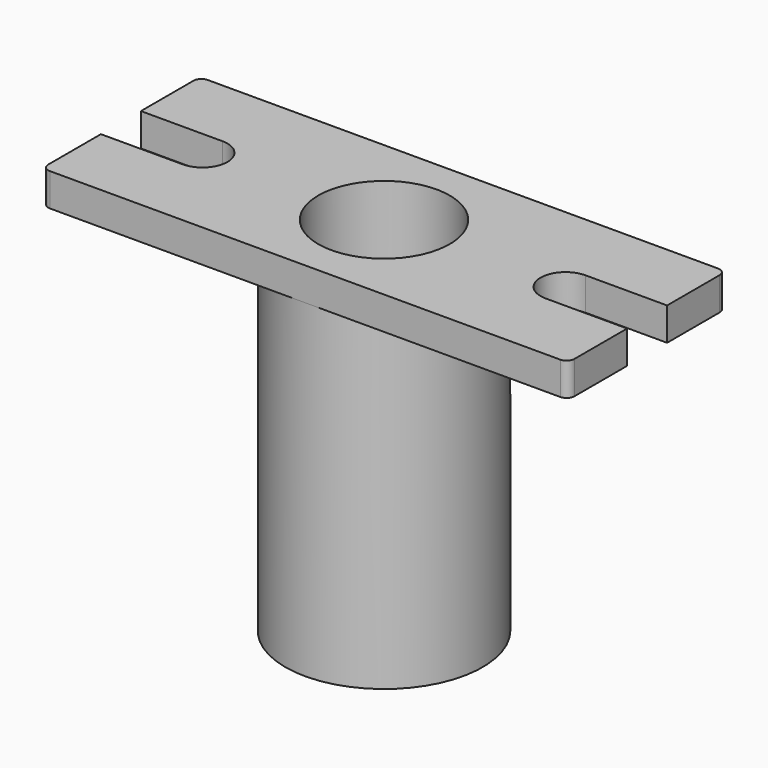
from build123d import *

# Parameters (mm, degrees)
F3_DEPTH = 69.851
F4_DEPTH = 69.851
F5_DEPTH = 6.35
F6_R     = 1.524


with BuildPart() as f1:
    # F0 (on Front) → F1 (revolve)
    with BuildSketch(Plane.XZ):
        Polygon((-19.05, 0), (-4.7625, 0), (-4.7625, 6.35), (-12.7, 6.35), (-12.7, 69.85), (-50.8, 69.85), (-50.8, 63.5), (-19.05, 63.5), align=None)
    revolve(axis=Axis((0, 0, 25.949794008), (0, 0, 1)))

    # F2 (on face) → F3 (cut, through all)
    with BuildSketch(Plane.XY.offset(69.85)):
        with BuildLine():
            ThreePointArc((47.0928603931, 19.05), (0, 50.8), (-47.0928603931, 19.05))
            Line((-47.0928603931, 19.05), (47.0928603931, 19.05))
        make_face()
        with BuildLine():
            Line((47.0928603931, -19.05), (-47.0928603931, -19.05))
            ThreePointArc((-47.0928603931, -19.05), (0, -50.8), (47.0928603931, -19.05))
        make_face()
    extrude(amount=-F3_DEPTH, mode=Mode.SUBTRACT)

    # F2 (on face) → F4 (cut, through all)
    with BuildSketch(Plane.XY.offset(69.85)):
        with BuildLine():
            ThreePointArc((39.878, 0), (38.464497326, 3.412497326), (35.052, 4.826))
            ThreePointArc((35.052, 4.826), (30.226, 0), (35.052, -4.826))
            ThreePointArc((35.052, -4.826), (38.464497326, -3.412497326), (39.878, 0))
        make_face()
        with BuildLine():
            ThreePointArc((50.8, 0), (50.7425288512, 2.4157329714), (50.5702454414, 4.826))
            Line((50.5702454414, 4.826), (35.052, 4.826))
            ThreePointArc((35.052, 4.826), (38.464497326, 3.412497326), (39.878, 0))
            ThreePointArc((39.878, 0), (38.464497326, -3.412497326), (35.052, -4.826))
            Line((35.052, -4.826), (50.5702454414, -4.826))
            ThreePointArc((50.5702454414, -4.826), (50.7425288512, -2.4157329714), (50.8, 0))
        make_face()
        with BuildLine():
            ThreePointArc((-30.226, 0), (-31.639502674, 3.412497326), (-35.052, 4.826))
            ThreePointArc((-35.052, 4.826), (-39.878, 0), (-35.052, -4.826))
            ThreePointArc((-35.052, -4.826), (-31.639502674, -3.412497326), (-30.226, 0))
        make_face()
        with BuildLine():
            Line((-35.052, 4.826), (-50.5702454414, 4.826))
            ThreePointArc((-50.5702454414, 4.826), (-50.7425288488, 2.41573302), (-50.8, 9.73e-08))
            ThreePointArc((-50.8, 9.73e-08), (-50.7425288535, -2.4157329228), (-50.5702454414, -4.826))
            Line((-50.5702454414, -4.826), (-35.052, -4.826))
            ThreePointArc((-35.052, -4.826), (-39.878, 0), (-35.052, 4.826))
        make_face()
    extrude(amount=-F4_DEPTH, mode=Mode.SUBTRACT)

    # F2 (on face) → F5 (join)
    with BuildSketch(Plane.XY.offset(69.85)):
        with BuildLine():
            Line((-47.0928603931, 19.05), (-50.8, 19.05))
            Line((-50.8, 19.05), (-50.8, 4.826))
            Line((-50.8, 4.826), (-50.5702454414, 4.826))
            ThreePointArc((-50.5702454414, 4.826), (-49.3467436039, 12.0639502524), (-47.0928603931, 19.05))
        make_face()
        with BuildLine():
            Line((-50.5702454414, -4.826), (-50.8, -4.826))
            Line((-50.8, -4.826), (-50.8, -19.05))
            Line((-50.8, -19.05), (-47.0928603931, -19.05))
            ThreePointArc((-47.0928603931, -19.05), (-49.3467436039, -12.0639502524), (-50.5702454414, -4.826))
        make_face()
        with BuildLine():
            Line((50.8, 19.05), (47.0928603931, 19.05))
            ThreePointArc((47.0928603931, 19.05), (49.3467436039, 12.0639502524), (50.5702454414, 4.826))
            Line((50.5702454414, 4.826), (50.8, 4.826))
            Line((50.8, 4.826), (50.8, 19.05))
        make_face()
        with BuildLine():
            Line((50.8, -19.05), (50.8, -4.826))
            Line((50.8, -4.826), (50.5702454414, -4.826))
            ThreePointArc((50.5702454414, -4.826), (49.3467436039, -12.0639502524), (47.0928603931, -19.05))
            Line((47.0928603931, -19.05), (50.8, -19.05))
        make_face()
    extrude(amount=-F5_DEPTH)

    # F6
    f6_edges = [f1.edges().sort_by_distance(p)[0] for p in [
        (-50.8, -19.05, 66.675),
        (50.8, -19.05, 66.675),
        (50.8, 19.05, 66.675),
        (-50.8, 19.05, 66.675),
    ]]
    fillet(f6_edges, radius=F6_R)


solid = f1.part
